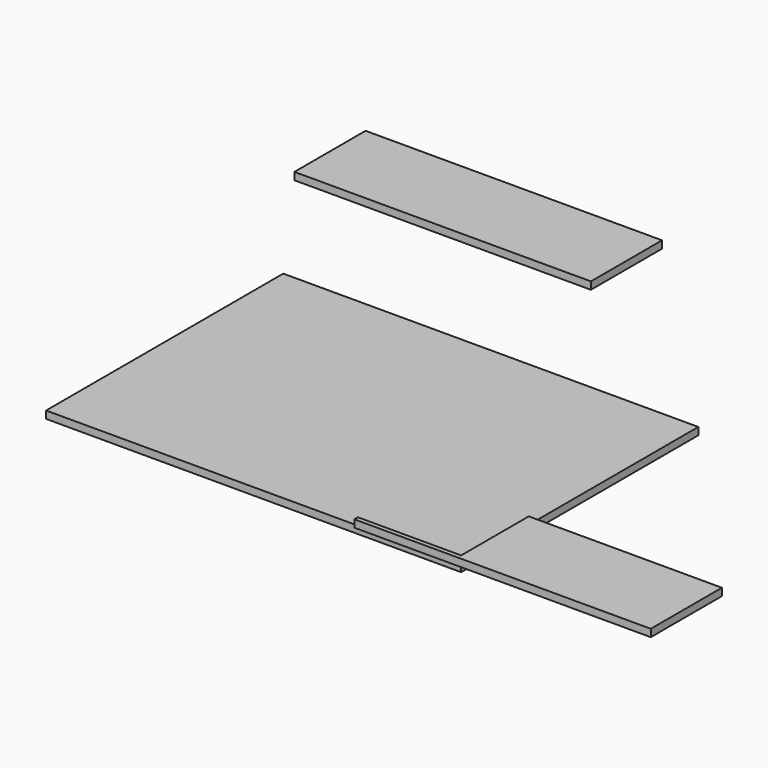
from build123d import *

# Parameters (mm, degrees)
F0_W     = 177.8
F0_H     = 127
F1_DEPTH = 3.175
F4_DEPTH = 3.175
F5_W     = 127
F5_H     = 38.1
F6_DEPTH = 3.175


with BuildPart() as f1:
    # F0 (on Top) → F1 (new body)
    with BuildSketch(Plane.XY):
        with Locations((-3.657877, -38.051832)):
            Rectangle(F0_W, F0_H)
    extrude(amount=F1_DEPTH)


with BuildPart() as f4:
    # F3 (on face) → F4 (new body)
    with BuildSketch(Plane.XY.offset(3.175)):
        Polygon((167.989908, -65.34051), (85.242123, -65.34051), (85.242123, -101.551832), (40.989908, -101.551832), (40.989908, -103.44051), (167.989908, -103.44051), align=None)
    extrude(amount=F4_DEPTH)


with BuildPart() as f6:
    # F5 (on face) → F6 (new body)
    with BuildSketch(Plane.XY.offset(3.175)):
        with Locations((-68.370619, 99.616721)):
            Rectangle(F5_W, F5_H)
    extrude(amount=F6_DEPTH)


solid = Compound([f1.part, f4.part, f6.part])
